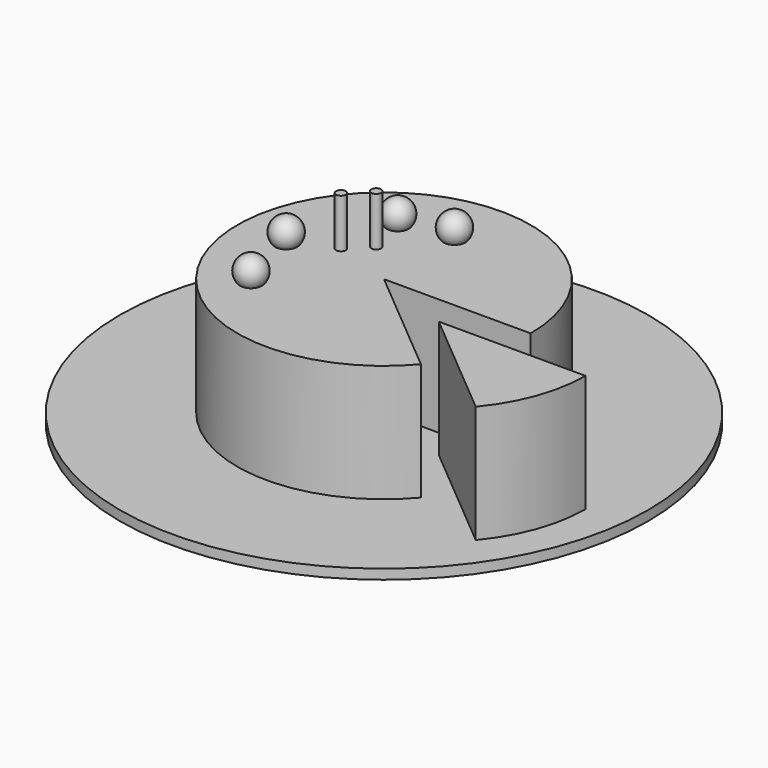
from build123d import *

# Parameters (mm, degrees)
CYLINDER_W                  = 15
CYLINDER_H                  = 12
CYLINDER_ANGLE              = 320
CYLINDER001_W               = 15
CYLINDER001_H               = 12
CYLINDER001_ANGLE           = 40
CYLINDER001_PLACEMENT_ANGLE = 320
CYLINDER002_R               = 27
CYLINDER002_DEPTH           = 1
CYLINDER003_R               = 0.5
CYLINDER003_DEPTH           = 10
CYLINDER004_R               = 0.5
CYLINDER004_DEPTH           = 10


with BuildPart() as obj1:
    # Cylinder → Cylinder (revolve)
    with BuildSketch(Plane(origin=(0, 0, 1), x_dir=(1, 0, 0), z_dir=(0, -1, 0))):
        with Locations((7.5, 6)):
            Rectangle(CYLINDER_W, CYLINDER_H)
    revolve(axis=Axis((0, 0, 1), (0, 0, 1)), revolution_arc=CYLINDER_ANGLE)


with BuildPart() as obj2:
    # Cylinder001 → Cylinder001 (revolve)
    with BuildSketch(Plane.XZ):
        with Locations((7.5, 6)):
            Rectangle(CYLINDER001_W, CYLINDER001_H)
    revolve(axis=Axis((0, 0, 0), (0, 0, 1)), revolution_arc=CYLINDER001_ANGLE)


with BuildPart() as obj2_1:
    # Cylinder001 placement: moved
    add(obj2.part.moved(Location((8, -3, 1))).rotate(Axis((8, -3, 1), (0, 0, 1)), CYLINDER001_PLACEMENT_ANGLE))


with BuildPart() as plato:
    # Cylinder002 → Cylinder002 (new body)
    with BuildSketch(Plane.XY):
        Circle(CYLINDER002_R)
    extrude(amount=CYLINDER002_DEPTH)


with BuildPart() as obj3:
    # Sphere → Sphere (revolve)
    with BuildSketch(Plane(origin=(-10, 0, 14), x_dir=(1, 0, 0), z_dir=(0, -1, 0))):
        with BuildLine():
            ThreePointArc((0, -1.5), (1.5, 0), (0, 1.5))
            Line((0, 1.5), (0, -1.5))
        make_face()
    revolve(axis=Axis((-10, 0, 14), (0, 0, 1)))


with BuildPart() as sphere001:
    # Sphere001 → Sphere001 (revolve)
    with BuildSketch(Plane(origin=(0, 9, 14), x_dir=(1, 0, 0), z_dir=(0, -1, 0))):
        with BuildLine():
            ThreePointArc((0, -1.5), (1.5, 0), (0, 1.5))
            Line((0, 1.5), (0, -1.5))
        make_face()
    revolve(axis=Axis((0, 9, 14), (0, 0, 1)))


with BuildPart() as sphere002:
    # Sphere002 → Sphere002 (revolve)
    with BuildSketch(Plane(origin=(-5, 8, 14), x_dir=(1, 0, 0), z_dir=(0, -1, 0))):
        with BuildLine():
            ThreePointArc((0, -1.5), (1.5, 0), (0, 1.5))
            Line((0, 1.5), (0, -1.5))
        make_face()
    revolve(axis=Axis((-5, 8, 14), (0, 0, 1)))


with BuildPart() as sphere003:
    # Sphere003 → Sphere003 (revolve)
    with BuildSketch(Plane(origin=(-8, -7, 14), x_dir=(1, 0, 0), z_dir=(0, -1, 0))):
        with BuildLine():
            ThreePointArc((0, -1.5), (1.5, 0), (0, 1.5))
            Line((0, 1.5), (0, -1.5))
        make_face()
    revolve(axis=Axis((-8, -7, 14), (0, 0, 1)))


with BuildPart() as cylinder003:
    # Cylinder003 → Cylinder003 (new body)
    with BuildSketch(Plane(origin=(-4, 4, 8), x_dir=(1, 0, 0), z_dir=(0, 0, 1))):
        Circle(CYLINDER003_R)
    extrude(amount=CYLINDER003_DEPTH)


with BuildPart() as cylinder004:
    # Cylinder004 → Cylinder004 (new body)
    with BuildSketch(Plane(origin=(-6, 2, 8), x_dir=(1, 0, 0), z_dir=(0, 0, 1))):
        Circle(CYLINDER004_R)
    extrude(amount=CYLINDER004_DEPTH)


solid = Compound([obj1.part, obj2_1.part, plato.part, obj3.part, sphere001.part, sphere002.part, sphere003.part, cylinder003.part, cylinder004.part])
